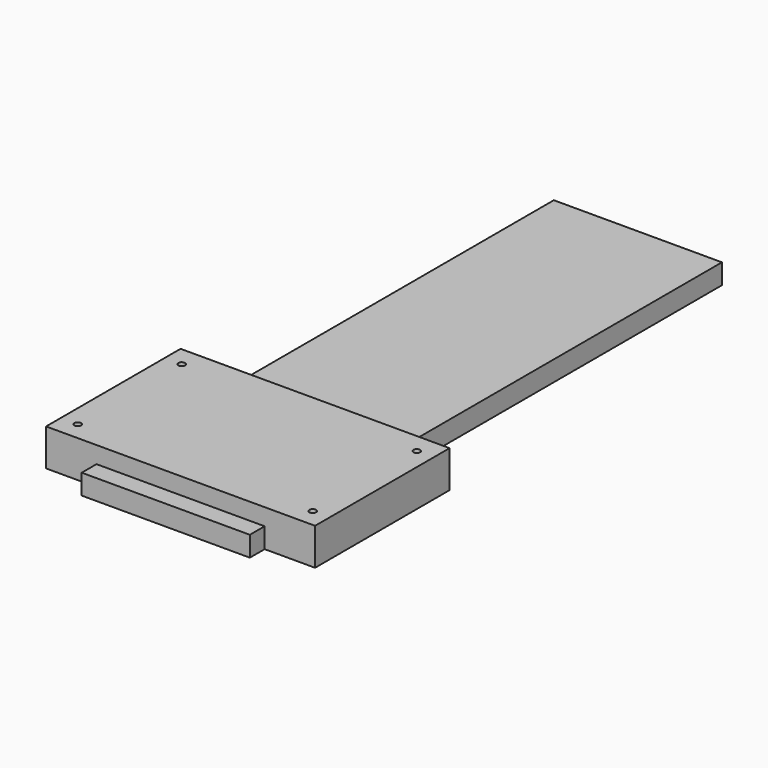
from build123d import *

# Parameters (mm, degrees)
PAD_DEPTH    = 12
SKETCH001_W  = 160
SKETCH001_H  = 100
PAD001_DEPTH = 10
SKETCH002_R  = 2
POCKET_DEPTH = 22.001


with BuildPart() as part:
    # Sketch → Pad (new body)
    with BuildSketch(Plane.XY):
        Polygon((-50, 340), (50, 340), (50, 100), (80, 100), (80, 0), (50, 0), (50, -11), (-50, -11), (-50, 0), (-80, 0), (-80, 100), (-50, 100), align=None)
    extrude(amount=PAD_DEPTH)

    # Sketch001 (on Face14 of Pad) → Pad001 (join)
    with BuildSketch(Plane.XY.offset(12)):
        with Locations((0, 50)):
            Rectangle(SKETCH001_W, SKETCH001_H)
    extrude(amount=PAD001_DEPTH)

    # Sketch002 (on Face18 of Pad001) → Pocket (cut, through all)
    with BuildSketch(Plane.XY.offset(22)):
        with Locations((-69.908607, 88.239746)):
            Circle(SKETCH002_R)
        with Locations((69.908607, 88.239746)):
            Circle(SKETCH002_R)
        with Locations((69.908607, 10.851752)):
            Circle(SKETCH002_R)
        with Locations((-69.908607, 10.851752)):
            Circle(SKETCH002_R)
    extrude(amount=-POCKET_DEPTH, mode=Mode.SUBTRACT)


solid = part.part
